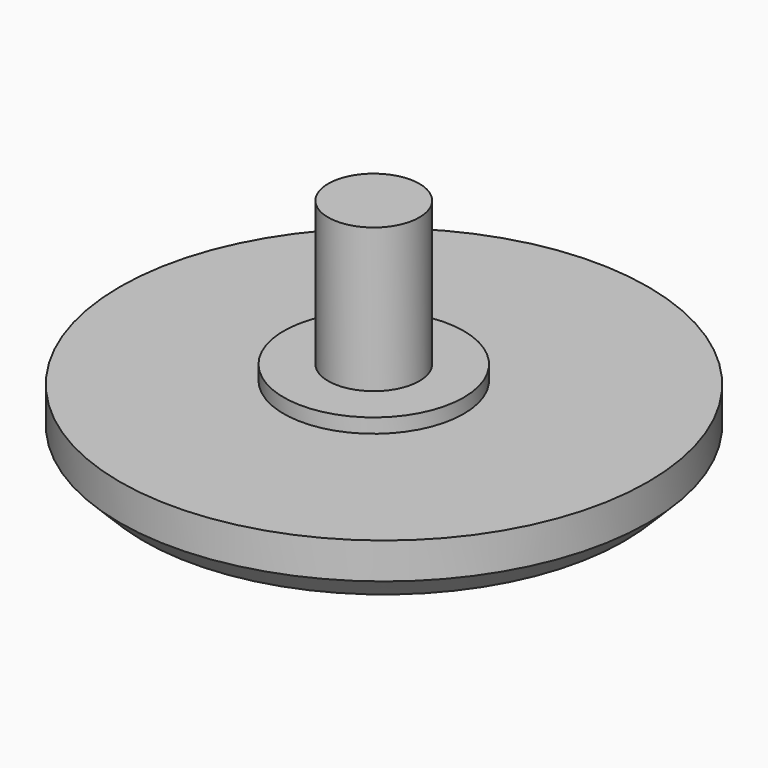
from build123d import *

# Parameters (mm, degrees)
F0_R     = 11
F1_DEPTH = 2.5
F2_SIZE2 = 1
F2_SIZE  = 1
F3_R     = 3.75
F4_DEPTH = 0.6
F5_R     = 1.9
F6_DEPTH = 6


with BuildPart() as f1:
    # F0 (on Top) → F1 (new body)
    with BuildSketch(Plane.XY):
        with Locations((0.425981, 0)):
            Circle(F0_R)
    extrude(amount=F1_DEPTH)

    # F2
    f2_edges = [f1.edges().sort_by_distance(p)[0] for p in [
        (-10.574019, 0, 0),
    ]]
    chamfer(f2_edges, length=F2_SIZE, length2=F2_SIZE2)

    # F3 (on face) → F4 (join)
    with BuildSketch(Plane.XY.offset(2.5)):
        Circle(F3_R)
    extrude(amount=F4_DEPTH)

    # F5 (on face) → F6 (join)
    with BuildSketch(Plane.XY.offset(3.1)):
        Circle(F5_R)
    extrude(amount=F6_DEPTH)


solid = f1.part
